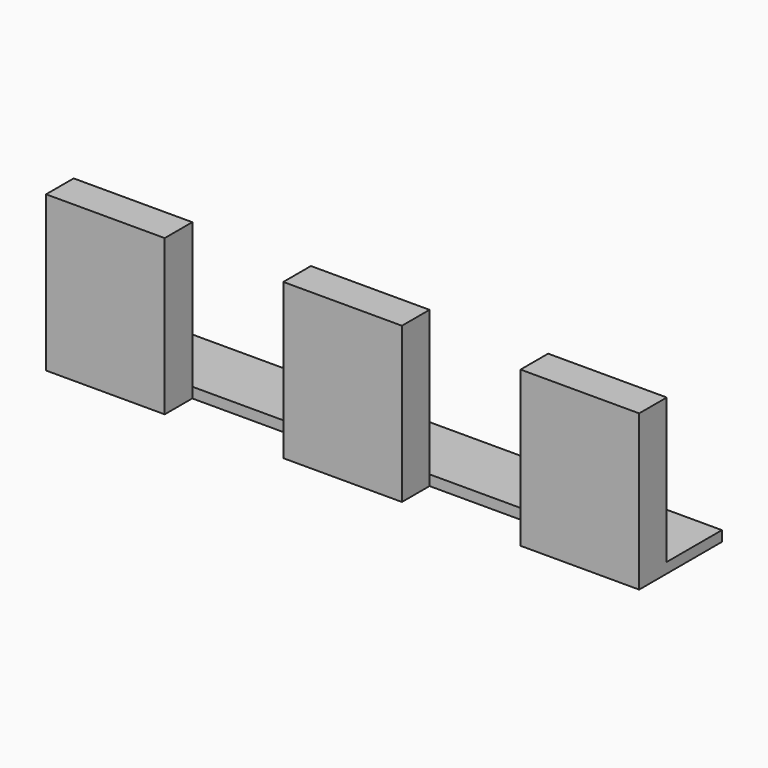
from build123d import *

# Parameters (mm, degrees)
F1_DEPTH = 3
F0_W     = 34.4
F0_H     = 10
F2_DEPTH = 45


with BuildPart() as f1:
    # F0 (on Top) → F1 (new body)
    with BuildSketch(Plane.XY):
        Polygon((86, -5), (86, 15), (-86, 15), (-86, -5), (-51.6, -5), (-17.2, -5), (17.2, -5), (51.6, -5), align=None)
    extrude(amount=F1_DEPTH)

    # F0 (on Top) → F2 (join)
    with BuildSketch(Plane.XY):
        with Locations((-68.8, -10)):
            Rectangle(F0_W, F0_H)
        with Locations((0, -10)):
            Rectangle(F0_W, F0_H)
        with Locations((68.8, -10)):
            Rectangle(F0_W, F0_H)
    extrude(amount=F2_DEPTH)


solid = f1.part
